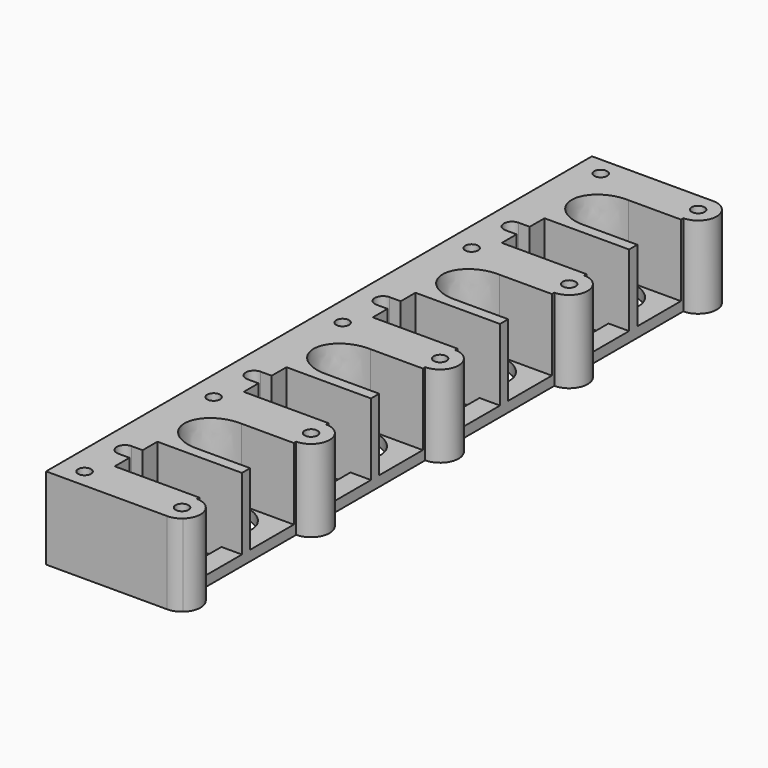
from build123d import *

# Parameters (mm, degrees)
F0_R     = 4
F1_DEPTH = 50.8
F3_W     = 32.512
F3_H     = 33.750834
F3_H_2   = 33.02
F4_DEPTH = 44.45


with BuildPart() as f1:
    # F0 (on Top) → F1 (new body)
    with BuildSketch(Plane.XY):
        with BuildLine():
            ThreePointArc((-7.62, 399.288), (3.8735, 410.7815), (-7.62, 422.275))
            Line((-7.62, 422.275), (-82.55, 422.275))
            Line((-82.55, 422.275), (-82.55, 0))
            Line((-82.55, 0), (-7.62, 0))
            ThreePointArc((-7.62, 0), (-3.545348, 0.746512), (0, 2.889074))
            ThreePointArc((0, 2.889074), (3.126988, 15.568152), (-7.62, 22.987))
            Line((-7.62, 22.987), (-7.62, 99.822))
            ThreePointArc((-7.62, 99.822), (3.8735, 111.3155), (-7.62, 122.809))
            Line((-7.62, 122.809), (-7.62, 199.644))
            ThreePointArc((-7.62, 199.644), (3.8735, 211.1375), (-7.62, 222.631))
            Line((-7.62, 222.631), (-7.62, 299.466))
            ThreePointArc((-7.62, 299.466), (3.8735, 310.9595), (-7.62, 322.453))
            Line((-7.62, 322.453), (-7.62, 399.288))
        make_face()
        with Locations((-67.945, 11.4935)):
            Circle(F0_R, mode=Mode.SUBTRACT)
        with BuildLine():
            Line((-59.944, 57.8485), (-20.32, 57.8485))
            Line((-20.32, 57.8485), (-20.32, 24.8285))
            Line((-20.32, 24.8285), (-59.944, 24.8285))
            Line((-59.944, 24.8285), (-59.944, 36.2585))
            Line((-59.944, 36.2585), (-66.802, 36.2585))
            ThreePointArc((-66.802, 36.2585), (-71.882, 41.3385), (-66.802, 46.4185))
            Line((-66.802, 46.4185), (-59.944, 46.4185))
            Line((-59.944, 46.4185), (-59.944, 57.8485))
        make_face(mode=Mode.SUBTRACT)
        with BuildLine():
            add(Edge.make_bspline(
                [(-20.32, 81.0895), (-20.32, 110.34557), (-51.3715, 95.717535), (-82.423, 81.0895), (-51.3715, 66.461465), (-20.32, 51.83343), (-20.32, 81.0895)],
                knots=[0, 0, 0, 2.094395, 2.094395, 4.18879, 4.18879, 6.283185, 6.283185, 6.283185], degree=2, weights=[1, 0.5, 1, 0.5, 1, 0.5, 1]))
        make_face(mode=Mode.SUBTRACT)
        with Locations((-67.945, 111.3155)):
            Circle(F0_R, mode=Mode.SUBTRACT)
        with BuildLine():
            Line((-59.944, 157.6705), (-20.32, 157.6705))
            Line((-20.32, 157.6705), (-20.32, 124.6505))
            Line((-20.32, 124.6505), (-59.944, 124.6505))
            Line((-59.944, 124.6505), (-59.944, 136.0805))
            Line((-59.944, 136.0805), (-66.802, 136.0805))
            ThreePointArc((-66.802, 136.0805), (-71.882, 141.1605), (-66.802, 146.2405))
            Line((-66.802, 146.2405), (-59.944, 146.2405))
            Line((-59.944, 146.2405), (-59.944, 157.6705))
        make_face(mode=Mode.SUBTRACT)
        with BuildLine():
            add(Edge.make_bspline(
                [(-20.32, 180.9115), (-20.32, 210.16757), (-51.3715, 195.539535), (-82.423, 180.9115), (-51.3715, 166.283465), (-20.32, 151.65543), (-20.32, 180.9115)],
                knots=[0, 0, 0, 2.094395, 2.094395, 4.18879, 4.18879, 6.283185, 6.283185, 6.283185], degree=2, weights=[1, 0.5, 1, 0.5, 1, 0.5, 1]))
        make_face(mode=Mode.SUBTRACT)
        with Locations((-7.62, 11.4935)):
            Circle(F0_R, mode=Mode.SUBTRACT)
        with Locations((-7.62, 111.3155)):
            Circle(F0_R, mode=Mode.SUBTRACT)
        with Locations((-67.945, 211.1375)):
            Circle(F0_R, mode=Mode.SUBTRACT)
        with Locations((-67.945, 310.9595)):
            Circle(F0_R, mode=Mode.SUBTRACT)
        with BuildLine():
            Line((-59.944, 257.4925), (-20.32, 257.4925))
            Line((-20.32, 257.4925), (-20.32, 224.4725))
            Line((-20.32, 224.4725), (-59.944, 224.4725))
            Line((-59.944, 224.4725), (-59.944, 235.9025))
            Line((-59.944, 235.9025), (-66.802, 235.9025))
            ThreePointArc((-66.802, 235.9025), (-71.882, 240.9825), (-66.802, 246.0625))
            Line((-66.802, 246.0625), (-59.944, 246.0625))
            Line((-59.944, 246.0625), (-59.944, 257.4925))
        make_face(mode=Mode.SUBTRACT)
        with BuildLine():
            add(Edge.make_bspline(
                [(-20.32, 280.7335), (-20.32, 309.98957), (-51.3715, 295.361535), (-82.423, 280.7335), (-51.3715, 266.105465), (-20.32, 251.47743), (-20.32, 280.7335)],
                knots=[0, 0, 0, 2.094395, 2.094395, 4.18879, 4.18879, 6.283185, 6.283185, 6.283185], degree=2, weights=[1, 0.5, 1, 0.5, 1, 0.5, 1]))
        make_face(mode=Mode.SUBTRACT)
        with Locations((-67.945, 410.7815)):
            Circle(F0_R, mode=Mode.SUBTRACT)
        with BuildLine():
            Line((-59.944, 357.3145), (-20.32, 357.3145))
            Line((-20.32, 357.3145), (-20.32, 324.2945))
            Line((-20.32, 324.2945), (-59.944, 324.2945))
            Line((-59.944, 324.2945), (-59.944, 335.7245))
            Line((-59.944, 335.7245), (-66.802, 335.7245))
            ThreePointArc((-66.802, 335.7245), (-71.882, 340.8045), (-66.802, 345.8845))
            Line((-66.802, 345.8845), (-59.944, 345.8845))
            Line((-59.944, 345.8845), (-59.944, 357.3145))
        make_face(mode=Mode.SUBTRACT)
        with BuildLine():
            add(Edge.make_bspline(
                [(-20.32, 380.5555), (-20.32, 409.81157), (-51.3715, 395.183535), (-82.423, 380.5555), (-51.3715, 365.927465), (-20.32, 351.29943), (-20.32, 380.5555)],
                knots=[0, 0, 0, 2.094395, 2.094395, 4.18879, 4.18879, 6.283185, 6.283185, 6.283185], degree=2, weights=[1, 0.5, 1, 0.5, 1, 0.5, 1]))
        make_face(mode=Mode.SUBTRACT)
        with Locations((-7.62, 211.1375)):
            Circle(F0_R, mode=Mode.SUBTRACT)
        with Locations((-7.62, 310.9595)):
            Circle(F0_R, mode=Mode.SUBTRACT)
        with Locations((-7.62, 410.7815)):
            Circle(F0_R, mode=Mode.SUBTRACT)
    extrude(amount=F1_DEPTH)

    # F3 (on face) → F4 (cut)
    with BuildSketch(Plane.XY.offset(50.8)):
        with Locations((-23.876, 81.0895)):
            Rectangle(F3_W, F3_H)
        with Locations((-23.876, 41.3385)):
            Rectangle(F3_W, F3_H_2)
        with Locations((-23.876, 141.1605)):
            Rectangle(F3_W, F3_H_2)
        with Locations((-23.876, 180.9115)):
            Rectangle(F3_W, F3_H)
        with Locations((-23.876, 240.9825)):
            Rectangle(F3_W, F3_H_2)
        with Locations((-23.876, 280.7335)):
            Rectangle(F3_W, F3_H)
        with Locations((-23.876, 340.8045)):
            Rectangle(F3_W, F3_H_2)
        with Locations((-23.876, 380.5555)):
            Rectangle(F3_W, F3_H)
    extrude(amount=-F4_DEPTH, mode=Mode.SUBTRACT)


solid = f1.part
